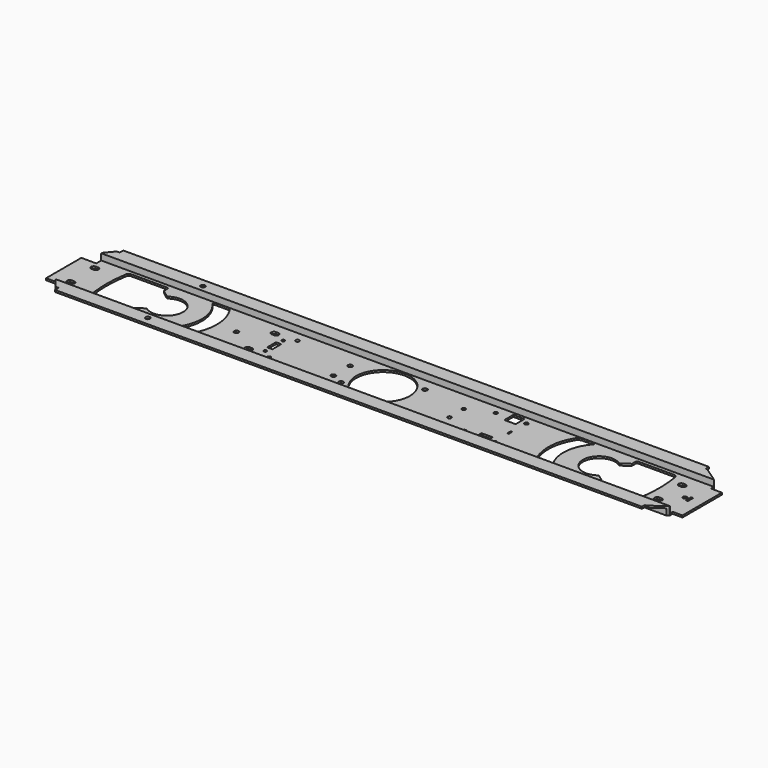
from build123d import *

# Parameters (mm, degrees)
F2_DEPTH      = 213.75
F2_DEPTH_BACK = 213.3
F3_R          = 1.5
F3_R_2        = 1.25
F3_R_3        = 1
F3_W          = 3.5
F3_H          = 7.5
F3_R_4        = 18
F3_W_2        = 7.5
F3_W_3        = 1.4
F3_H_2        = 4.5
F3_W_4        = 1
F3_H_3        = 3
F4_DEPTH      = 12.5


with BuildPart() as f2:
    # F1 (on Right) → F2 (new body, two sides)
    with BuildSketch(Plane.YZ) as f2_sk:
        Polygon((-20.1, 0), (0, 0), (20.1, 0), (20.1, 4.25), (29.4019281864, 4.25), (29.4019281864, 5.5), (18.85, 5.5), (18.85, 1.25), (0, 1.25), (-18.85, 1.25), (-18.85, 5.5), (-29.4019281864, 5.5), (-29.4019281864, 4.25), (-20.1, 4.25), align=None)
    extrude(amount=-F2_DEPTH)
    extrude(f2_sk.sketch, amount=F2_DEPTH_BACK)


with BuildPart() as f4:
    # F3 (on Top) → F4 (new body, symmetric)
    with BuildSketch(Plane.XY):
        Polygon((195, 25.7499986429), (195, 28.4999994148), (194.5, 28.4999994148), (-195.3, 28.4999994148), (-196.3, 28.4999994148), (-196.3, 25.4999994148), (-198.3, 25.4999994148), (-203.3, 19.4999994148), (-203.3, 14.6999994148), (-212.3, 14.6999994148), (-213.3000046015, 14.6999994148), (-213.3000046015, -14.699999243), (-212.3, -14.699999243), (-203.3, -14.699999243), (-203.3, -19.499999243), (-198.3, -25.499999243), (-196.3, -25.499999243), (-196.3, -28.4999994148), (-194.8, -28.4999994148), (195.75, -28.4999994148), (195.75, -26.0000000149), (196.75, -26.0000000149), (206.75, -19.0980702197), (206.75, -16.5980702197), (213.75, -16.5980702197), (213.75, 16.3480688477), (206, 16.3480688477), (206, 18.8480688477), (196, 25.7499986429), align=None)
        with Locations((-138.6999965906, -23)):
            Circle(F3_R, mode=Mode.SUBTRACT)
        with BuildLine():
            Line((-201.2500090599, -8.2499995977), (-199.7500090599, -8.2499995977))
            ThreePointArc((-199.7500090599, -8.2499995977), (-198.5125721928, -8.7625627306), (-198.0000090599, -9.9999995977))
            ThreePointArc((-198.0000090599, -9.9999995977), (-198.5125721928, -11.2374364647), (-199.7500090599, -11.7499995977))
            Line((-199.7500090599, -11.7499995977), (-201.2500090599, -11.7499995977))
            ThreePointArc((-201.2500090599, -11.7499995977), (-202.487445927, -11.2374364647), (-203.0000090599, -9.9999995977))
            ThreePointArc((-203.0000090599, -9.9999995977), (-202.487445927, -8.7625627306), (-201.2500090599, -8.2499995977))
        make_face(mode=Mode.SUBTRACT)
        with BuildLine():
            Line((-119.8438900989, -18.5000002384), (-126.789952377, -18.5000002384))
            ThreePointArc((-126.789952377, -18.5000002384), (-127.6405965669, -17.9483428799), (-127.4838757427, -16.9466643076))
            ThreePointArc((-127.4838757427, -16.9466643076), (-121.0031854476, -0.0932272823), (-127.359971879, 16.8073334342))
            ThreePointArc((-127.359971879, 16.8073334342), (-127.5248133115, 17.9002865801), (-126.5963396302, 18.4999997616))
            Line((-126.5963396302, 18.4999997616), (-119.3293864435, 18.4999997616))
            ThreePointArc((-119.3293864435, 18.4999997616), (-117.1969819837, 17.941837967), (-115.6115056961, 16.4105122961))
            ThreePointArc((-115.6115056961, 16.4105122961), (-111.0114366489, 0.3034906671), (-115.3009215871, -15.8890106826))
            ThreePointArc((-115.3009215871, -15.8890106826), (-117.2239745774, -17.8007554031), (-119.8438900989, -18.5000002384))
        make_face(mode=Mode.SUBTRACT)
        with BuildLine():
            ThreePointArc((-80.150003612, -9.2499997616), (-78.912566745, -9.7625628945), (-78.400003612, -10.9999997616))
            ThreePointArc((-78.400003612, -10.9999997616), (-78.912566745, -12.2374366287), (-80.150003612, -12.7499997616))
            Line((-80.150003612, -12.7499997616), (-81.650003612, -12.7499997616))
            ThreePointArc((-81.650003612, -12.7499997616), (-82.8874404791, -12.2374366287), (-83.400003612, -10.9999997616))
            ThreePointArc((-83.400003612, -10.9999997616), (-82.8874404791, -9.7625628945), (-81.650003612, -9.2499997616))
            Line((-81.650003612, -9.2499997616), (-80.150003612, -9.2499997616))
        make_face(mode=Mode.SUBTRACT)
        with Locations((-66.6999965906, -12.0000001043)):
            Circle(F3_R_2, mode=Mode.SUBTRACT)
        with Locations((-72.7, -7.5)):
            Circle(F3_R_3, mode=Mode.SUBTRACT)
        with Locations((-19.625, -10.4999994148)):
            Circle(F3_R, mode=Mode.SUBTRACT)
        with Locations((-97.9000031948, 0)):
            Circle(F3_R, mode=Mode.SUBTRACT)
        with Locations((-72.7, 0)):
            Rectangle(F3_W, F3_H, mode=Mode.SUBTRACT)
        with Locations((-27.5, -7)):
            Circle(F3_R, mode=Mode.SUBTRACT)
        Circle(F3_R_4, mode=Mode.SUBTRACT)
        with Locations((64.8999983788, -13.0000000522)):
            Circle(F3_R_2, mode=Mode.SUBTRACT)
        with Locations((77.1999983788, -13.2500000522)):
            Rectangle(F3_W_2, F3_H, mode=Mode.SUBTRACT)
        with Locations((84.9499983788, -13.0305573521)):
            Circle(F3_R_2, mode=Mode.SUBTRACT)
        with Locations((49.1999983788, -6.0000000522)):
            Circle(F3_R_2, mode=Mode.SUBTRACT)
        with BuildLine():
            ThreePointArc((192.6500023603, -8.2499995977), (193.8874392274, -8.7625627306), (194.4000023603, -9.9999995977))
            ThreePointArc((194.4000023603, -9.9999995977), (193.8874392274, -11.2374364647), (192.6500023603, -11.7499995977))
            Line((192.6500023603, -11.7499995977), (191.1500023603, -11.7499995977))
            ThreePointArc((191.1500023603, -11.7499995977), (189.9125654933, -11.2374364647), (189.4000023603, -9.9999995977))
            ThreePointArc((189.4000023603, -9.9999995977), (189.9125654933, -8.7625627306), (191.1500023603, -8.2499995977))
            Line((191.1500023603, -8.2499995977), (192.6500023603, -8.2499995977))
        make_face(mode=Mode.SUBTRACT)
        with BuildLine():
            ThreePointArc((126.0078392165, 18.4999997616), (126.9363128977, 17.9002865801), (126.7714714652, 16.8073334342))
            ThreePointArc((126.7714714652, 16.8073334342), (120.4146850338, -0.0932272823), (126.8953753289, -16.9466643076))
            ThreePointArc((126.8953753289, -16.9466643076), (127.0520961531, -17.9483428799), (126.2014519632, -18.5000002384))
            Line((126.2014519632, -18.5000002384), (119.2553896851, -18.5000002384))
            ThreePointArc((119.2553896851, -18.5000002384), (116.6354741636, -17.8007554031), (114.7124211734, -15.8890106826))
            ThreePointArc((114.7124211734, -15.8890106826), (110.4229362351, 0.3034906671), (115.0230052823, 16.4105122961))
            ThreePointArc((115.0230052823, 16.4105122961), (116.6084815699, 17.941837967), (118.7408860297, 18.4999997616))
            Line((118.7408860297, 18.4999997616), (126.0078392165, 18.4999997616))
        make_face(mode=Mode.SUBTRACT)
        with BuildLine():
            Line((157.3659926653, 16.5), (158.0101729568, 16.5))
            Line((158.0101729568, 16.5), (181.4845980334, 16.5))
            ThreePointArc((181.4845980334, 16.5), (182.7120474314, 15.9874140791), (183.3393604692, 14.8144457489))
            ThreePointArc((183.3393604692, 14.8144457489), (184.2655622818, 7.4329441149), (184.5750101027, 0))
            ThreePointArc((184.5750101027, 0), (184.2655622818, -7.4329441149), (183.3393604692, -14.8144457489))
            ThreePointArc((183.3393604692, -14.8144457489), (182.7120474314, -15.9874140791), (181.4845980334, -16.5))
            Line((181.4845980334, -16.5), (158.0101729568, -16.5))
            Line((158.0101729568, -16.5), (157.3659926653, -16.5))
            ThreePointArc((157.3659926653, -16.5), (156.6210865894, -16.1875936545), (156.2775671482, -15.4565141923))
            Line((156.2775671482, -15.4565141923), (156.2775671482, -12.4828070402))
            Line((156.2775671482, -12.4828070402), (150.9841243687, -8.514883527))
            ThreePointArc((150.9841243687, -8.514883527), (133.4750101027, 0), (150.9841243687, 8.514883527))
            Line((150.9841243687, 8.514883527), (156.2775671482, 12.4828070402))
            Line((156.2775671482, 12.4828070402), (156.2775671482, 15.4565141923))
            ThreePointArc((156.2775671482, 15.4565141923), (156.6210865894, 16.1875936545), (157.3659926653, 16.5))
        make_face(mode=Mode.SUBTRACT)
        with Locations((201.7, 0)):
            Circle(F3_R_2, mode=Mode.SUBTRACT)
        with Locations((204.7, 0)):
            Rectangle(F3_W_3, F3_H_2, mode=Mode.SUBTRACT)
        with BuildLine():
            Line((-157.4659904173, -16.4999539751), (-158.1101707088, -16.4999539751))
            Line((-158.1101707088, -16.4999539751), (-181.5845957854, -16.4999539751))
            ThreePointArc((-181.5845957854, -16.4999539751), (-182.8120451834, -15.9873680542), (-183.4393582212, -14.814399724))
            ThreePointArc((-183.4393582212, -14.814399724), (-184.3655600338, -7.43289809), (-184.6750078547, 4.60249e-05))
            ThreePointArc((-184.6750078547, 4.60249e-05), (-184.3655600338, 7.4329901398), (-183.4393582212, 14.8144917738))
            ThreePointArc((-183.4393582212, 14.8144917738), (-182.8120451834, 15.987460104), (-181.5845957854, 16.5000460249))
            Line((-181.5845957854, 16.5000460249), (-158.1101707088, 16.5000460249))
            Line((-158.1101707088, 16.5000460249), (-157.4659904173, 16.5000460249))
            ThreePointArc((-157.4659904173, 16.5000460249), (-156.7210843414, 16.1876396794), (-156.3775649002, 15.4565602172))
            Line((-156.3775649002, 15.4565602172), (-156.3775649002, 12.4828530651))
            Line((-156.3775649002, 12.4828530651), (-151.0841221207, 8.5149295519))
            ThreePointArc((-151.0841221207, 8.5149295519), (-133.5750078547, 4.60249e-05), (-151.0841221207, -8.5148375021))
            Line((-151.0841221207, -8.5148375021), (-156.3775649002, -12.4827610153))
            Line((-156.3775649002, -12.4827610153), (-156.3775649002, -15.4564681674))
            ThreePointArc((-156.3775649002, -15.4564681674), (-156.7210843414, -16.1875476296), (-157.4659904173, -16.4999539751))
        make_face(mode=Mode.SUBTRACT)
        with BuildLine():
            Line((-201.2500090599, 11.7500004023), (-199.7500090599, 11.7500004023))
            ThreePointArc((-199.7500090599, 11.7500004023), (-198.5125721928, 11.2374372694), (-198.0000090599, 10.0000004023))
            ThreePointArc((-198.0000090599, 10.0000004023), (-198.5125721928, 8.7625635353), (-199.7500090599, 8.2500004023))
            Line((-199.7500090599, 8.2500004023), (-201.2500090599, 8.2500004023))
            ThreePointArc((-201.2500090599, 8.2500004023), (-202.487445927, 8.7625635353), (-203.0000090599, 10.0000004023))
            ThreePointArc((-203.0000090599, 10.0000004023), (-202.487445927, 11.2374372694), (-201.2500090599, 11.7500004023))
        make_face(mode=Mode.SUBTRACT)
        with Locations((-27.5, 7)):
            Circle(F3_R, mode=Mode.SUBTRACT)
        with Locations((-72.7, 7.5)):
            Circle(F3_R_3, mode=Mode.SUBTRACT)
        with BuildLine():
            Line((-81.650003612, 12.7500002384), (-80.150003612, 12.7500002384))
            ThreePointArc((-80.150003612, 12.7500002384), (-78.912566745, 12.2374371055), (-78.400003612, 11.0000002384))
            ThreePointArc((-78.400003612, 11.0000002384), (-78.912566745, 9.7625633713), (-80.150003612, 9.2500002384))
            Line((-80.150003612, 9.2500002384), (-81.650003612, 9.2500002384))
            ThreePointArc((-81.650003612, 9.2500002384), (-82.8874404791, 9.7625633713), (-83.400003612, 11.0000002384))
            ThreePointArc((-83.400003612, 11.0000002384), (-82.8874404791, 12.2374371055), (-81.650003612, 12.7500002384))
        make_face(mode=Mode.SUBTRACT)
        with Locations((-66.6999965906, 11.9999998957)):
            Circle(F3_R_2, mode=Mode.SUBTRACT)
        with Locations((-138.6999965906, 23)):
            Circle(F3_R, mode=Mode.SUBTRACT)
        with Locations((49.1999983788, 5.9999999478)):
            Circle(F3_R_2, mode=Mode.SUBTRACT)
        with Locations((84.492138505, 0.2194426358)):
            Rectangle(F3_W_4, F3_H_3, mode=Mode.SUBTRACT)
        with Locations((19.625, 10.4999994148)):
            Circle(F3_R, mode=Mode.SUBTRACT)
        with Locations((64.8999983788, 12.9999999478)):
            Circle(F3_R_2, mode=Mode.SUBTRACT)
        with Locations((77.1999983788, 13.2499999478)):
            Rectangle(F3_W_2, F3_H, mode=Mode.SUBTRACT)
        with Locations((84.9499983788, 13.4694426479)):
            Circle(F3_R_2, mode=Mode.SUBTRACT)
        with BuildLine():
            Line((191.1500023603, 11.7500004023), (192.6500023603, 11.7500004023))
            ThreePointArc((192.6500023603, 11.7500004023), (193.8874392274, 11.2374372694), (194.4000023603, 10.0000004023))
            ThreePointArc((194.4000023603, 10.0000004023), (193.8874392274, 8.7625635353), (192.6500023603, 8.2500004023))
            Line((192.6500023603, 8.2500004023), (191.1500023603, 8.2500004023))
            ThreePointArc((191.1500023603, 8.2500004023), (189.9125654933, 8.7625635353), (189.4000023603, 10.0000004023))
            ThreePointArc((189.4000023603, 10.0000004023), (189.9125654933, 11.2374372694), (191.1500023603, 11.7500004023))
        make_face(mode=Mode.SUBTRACT)
    extrude(amount=F4_DEPTH, both=True)

    # F5: intersect F2
    add(f2.part, mode=Mode.INTERSECT)


solid = f4.part
